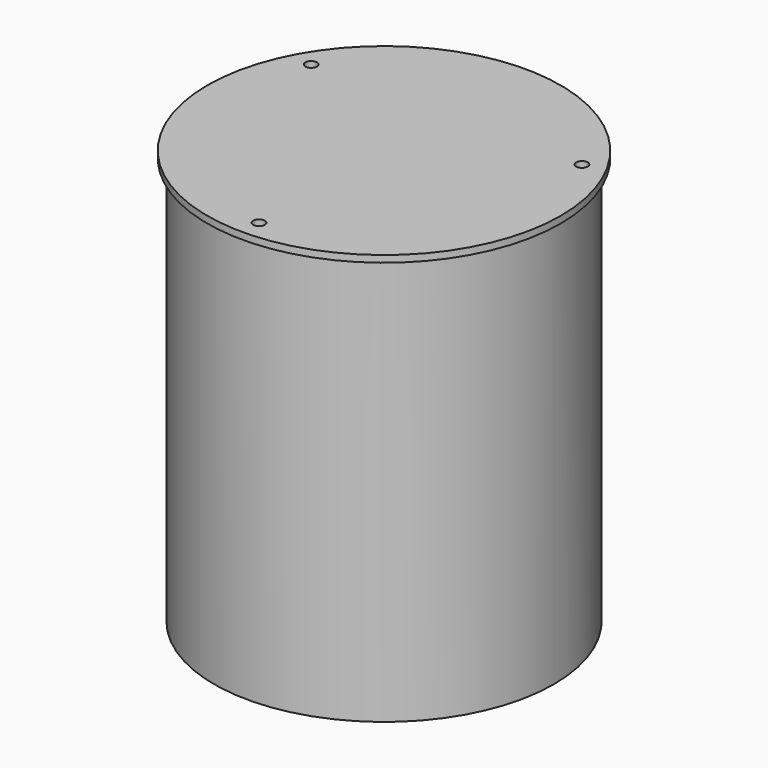
from build123d import *

# Parameters (mm, degrees)
F0_R     = 125
F1_DEPTH = 300
F2_T     = -4
F3_R     = 30.1
F4_DEPTH = 25
F5_R     = 130
F5_R_2   = 125
F5_R_3   = 121
F5_R_4   = 4.25
F6_DEPTH = 5


with BuildPart() as f1:
    # F0 (on Top) → F1 (new body)
    with BuildSketch(Plane.XY):
        Circle(F0_R)
    extrude(amount=F1_DEPTH)

    # F2
    f2_openings = [f1.faces().sort_by_distance(p)[0] for p in [
        (0, 0, 300),
    ]]
    offset(amount=F2_T, openings=f2_openings)

    # F3 (on face) → F4 (cut)
    with BuildSketch(Plane(origin=(0, 0, 0), x_dir=(1, 0, 0), z_dir=(0, 0, -1))):
        Circle(F3_R)
    extrude(amount=-F4_DEPTH, mode=Mode.SUBTRACT)


with BuildPart() as f6:
    # F5 (on face) → F6 (new body)
    with BuildSketch(Plane.XY.offset(300)):
        Circle(F5_R)
        Circle(F5_R_2, mode=Mode.SUBTRACT)
        Circle(F5_R_2)
        Circle(F5_R_3, mode=Mode.SUBTRACT)
        Circle(F5_R_3)
        with Locations((0, -115)):
            Circle(F5_R_4, mode=Mode.SUBTRACT)
        with Locations((-99.5929214352, 57.5)):
            Circle(F5_R_4, mode=Mode.SUBTRACT)
        with Locations((99.5929214352, 57.5)):
            Circle(F5_R_4, mode=Mode.SUBTRACT)
    extrude(amount=F6_DEPTH)


solid = Compound([f1.part, f6.part])
